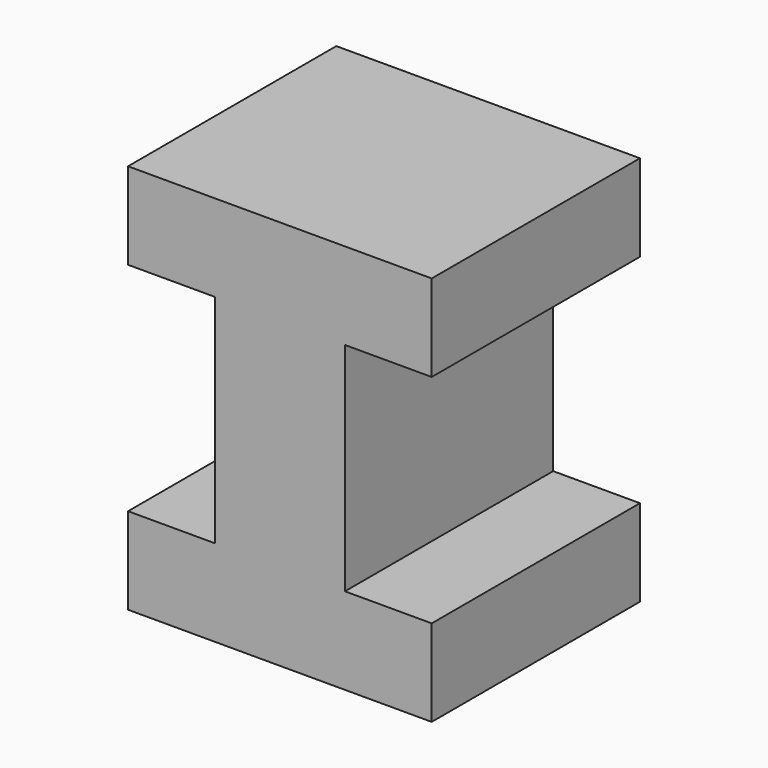
from build123d import *

# Parameters (mm, degrees)
F1_DEPTH = 76.2
F3_DEPTH = 25.4


with BuildPart() as f1:
    # F0 (on Front) → F1 (new body)
    with BuildSketch(Plane.XZ):
        Polygon((43.014258, 63.077183), (-45.885742, 63.077183), (-45.885742, 37.677183), (-20.485742, 37.677183), (-20.485742, -25.822817), (-45.885742, -25.822817), (-45.885742, -51.222817), (43.014258, -51.222817), (43.014258, -25.822817), (17.614258, -25.822817), (17.614258, 37.677183), (43.014258, 37.677183), align=None)
    extrude(amount=F1_DEPTH)

    # F2 (on face) → F3 (cut)
    with BuildSketch(Plane.XZ.offset(76.2)):
        Polygon((-5.556331, 38.095985), (5.556331, 38.095985), (8.990332, 48.664754), (0, 55.196613), (-8.990332, 48.664754), align=None)
    extrude(amount=F3_DEPTH, mode=Mode.SUBTRACT)


solid = f1.part
